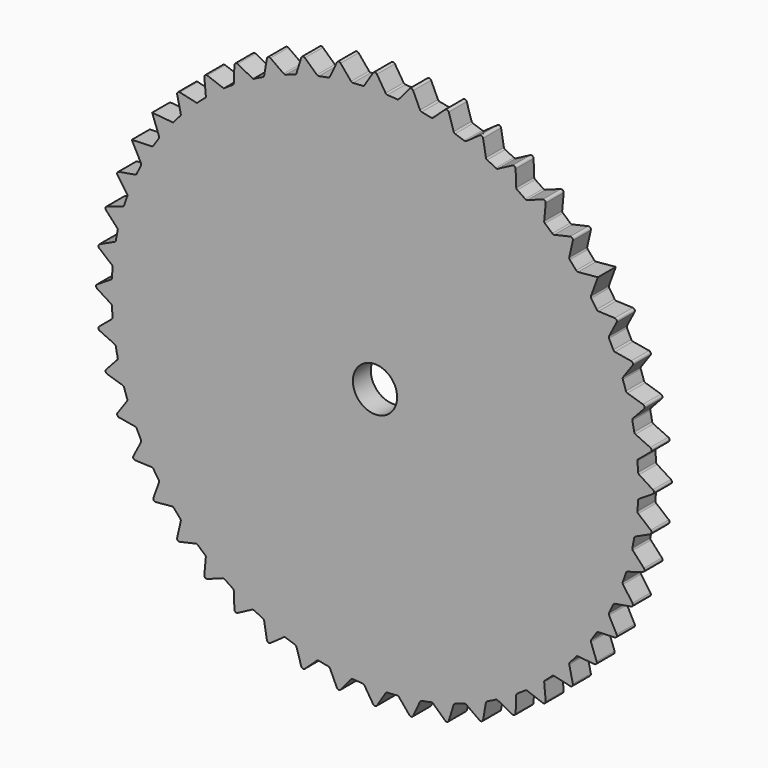
from build123d import *

# Parameters (mm, degrees)
F0_R     = 1.000001
F1_DEPTH = 1.016
F2_R     = 0.1016


with BuildPart() as f1:
    # F0 (on Front) → F1 (new body)
    with BuildSketch(Plane.XZ):
        with BuildLine():
            Line((0, 12.7), (-0.508, 11.895408))
            ThreePointArc((-0.508, 11.895408), (-0.778706, 11.880758), (-1.049008, 11.859948))
            ThreePointArc((-1.049008, 11.859948), (-1.554077, 11.80439), (-2.056316, 11.727334))
            ThreePointArc((-2.056316, 11.727334), (-2.322794, 11.677475), (-2.588068, 11.621562))
            ThreePointArc((-2.588068, 11.621562), (-3.081564, 11.500554), (-3.569448, 11.358601))
            ThreePointArc((-3.569448, 11.358601), (-3.827139, 11.274387), (-4.082845, 11.184327))
            ThreePointArc((-4.082845, 11.184327), (-4.556325, 10.999941), (-5.021506, 10.795521))
            ThreePointArc((-5.021506, 10.795521), (-5.266, 10.678391), (-5.507763, 10.555725))
            ThreePointArc((-5.507763, 10.555725), (-5.953125, 10.311115), (-6.387645, 10.047725))
            ThreePointArc((-6.387645, 10.047725), (-6.614758, 9.899685), (-6.838442, 9.746512))
            ThreePointArc((-6.838442, 9.746512), (-7.248066, 9.445863), (-7.644489, 9.128011))
            ThreePointArc((-7.644489, 9.128011), (-7.850336, 8.951593), (-8.052113, 8.770534))
            ThreePointArc((-8.052113, 8.770534), (-8.41899, 8.41899), (-8.770534, 8.052113))
            ThreePointArc((-8.770534, 8.052113), (-8.951593, 7.850336), (-9.128011, 7.644489))
            ThreePointArc((-9.128011, 7.644489), (-9.445863, 7.248066), (-9.746512, 6.838442))
            ThreePointArc((-9.746512, 6.838442), (-9.899685, 6.614758), (-10.047725, 6.387645))
            ThreePointArc((-10.047725, 6.387645), (-10.311115, 5.953125), (-10.555725, 5.507763))
            ThreePointArc((-10.555725, 5.507763), (-10.678391, 5.266), (-10.795521, 5.021506))
            ThreePointArc((-10.795521, 5.021506), (-10.999941, 4.556325), (-11.184327, 4.082845))
            ThreePointArc((-11.184327, 4.082845), (-11.274387, 3.827139), (-11.358601, 3.569448))
            ThreePointArc((-11.358601, 3.569448), (-11.500554, 3.081564), (-11.621562, 2.588068))
            ThreePointArc((-11.621562, 2.588068), (-11.677475, 2.322794), (-11.727334, 2.056316))
            ThreePointArc((-11.727334, 2.056316), (-11.80439, 1.554077), (-11.859948, 1.049008))
            ThreePointArc((-11.859948, 1.049008), (-11.880758, 0.778706), (-11.895408, 0.508))
            ThreePointArc((-11.895408, 0.508), (-11.90625, 0), (-11.895408, -0.508))
            ThreePointArc((-11.895408, -0.508), (-11.880758, -0.778706), (-11.859948, -1.049008))
            ThreePointArc((-11.859948, -1.049008), (-11.80439, -1.554077), (-11.727334, -2.056316))
            ThreePointArc((-11.727334, -2.056316), (-11.677475, -2.322794), (-11.621562, -2.588068))
            ThreePointArc((-11.621562, -2.588068), (-11.500554, -3.081564), (-11.358601, -3.569448))
            ThreePointArc((-11.358601, -3.569448), (-11.274387, -3.827139), (-11.184327, -4.082845))
            ThreePointArc((-11.184327, -4.082845), (-10.999941, -4.556325), (-10.795521, -5.021506))
            ThreePointArc((-10.795521, -5.021506), (-10.678391, -5.266), (-10.555725, -5.507763))
            ThreePointArc((-10.555725, -5.507763), (-10.311115, -5.953125), (-10.047725, -6.387645))
            ThreePointArc((-10.047725, -6.387645), (-9.899685, -6.614758), (-9.746512, -6.838442))
            ThreePointArc((-9.746512, -6.838442), (-9.445863, -7.248066), (-9.128011, -7.644489))
            ThreePointArc((-9.128011, -7.644489), (-8.951593, -7.850336), (-8.770534, -8.052113))
            ThreePointArc((-8.770534, -8.052113), (-8.41899, -8.41899), (-8.052113, -8.770534))
            ThreePointArc((-8.052113, -8.770534), (-7.850336, -8.951593), (-7.644489, -9.128011))
            ThreePointArc((-7.644489, -9.128011), (-7.248066, -9.445863), (-6.838442, -9.746512))
            ThreePointArc((-6.838442, -9.746512), (-6.614758, -9.899685), (-6.387645, -10.047725))
            ThreePointArc((-6.387645, -10.047725), (-5.953125, -10.311115), (-5.507763, -10.555725))
            ThreePointArc((-5.507763, -10.555725), (-5.266, -10.678391), (-5.021506, -10.795521))
            ThreePointArc((-5.021506, -10.795521), (-4.556325, -10.999941), (-4.082845, -11.184327))
            ThreePointArc((-4.082845, -11.184327), (-3.827139, -11.274387), (-3.569448, -11.358601))
            ThreePointArc((-3.569448, -11.358601), (-3.081564, -11.500554), (-2.588068, -11.621562))
            ThreePointArc((-2.588068, -11.621562), (-2.322794, -11.677475), (-2.056316, -11.727334))
            ThreePointArc((-2.056316, -11.727334), (-1.554077, -11.80439), (-1.049008, -11.859948))
            ThreePointArc((-1.049008, -11.859948), (-0.778706, -11.880758), (-0.508, -11.895408))
            ThreePointArc((-0.508, -11.895408), (0, -11.90625), (0.508, -11.895408))
            ThreePointArc((0.508, -11.895408), (0.778706, -11.880758), (1.049008, -11.859948))
            ThreePointArc((1.049008, -11.859948), (1.554077, -11.80439), (2.056316, -11.727334))
            ThreePointArc((2.056316, -11.727334), (2.322794, -11.677475), (2.588068, -11.621562))
            ThreePointArc((2.588068, -11.621562), (3.081564, -11.500554), (3.569448, -11.358601))
            ThreePointArc((3.569448, -11.358601), (3.827139, -11.274387), (4.082845, -11.184327))
            ThreePointArc((4.082845, -11.184327), (4.556325, -10.999941), (5.021506, -10.795521))
            ThreePointArc((5.021506, -10.795521), (5.266, -10.678391), (5.507763, -10.555725))
            ThreePointArc((5.507763, -10.555725), (5.953125, -10.311115), (6.387645, -10.047725))
            ThreePointArc((6.387645, -10.047725), (6.614758, -9.899685), (6.838442, -9.746512))
            ThreePointArc((6.838442, -9.746512), (7.248066, -9.445863), (7.644489, -9.128011))
            ThreePointArc((7.644489, -9.128011), (7.850336, -8.951593), (8.052113, -8.770534))
            ThreePointArc((8.052113, -8.770534), (8.41899, -8.41899), (8.770534, -8.052113))
            ThreePointArc((8.770534, -8.052113), (8.951593, -7.850336), (9.128011, -7.644489))
            ThreePointArc((9.128011, -7.644489), (9.445863, -7.248066), (9.746512, -6.838442))
            ThreePointArc((9.746512, -6.838442), (9.899685, -6.614758), (10.047725, -6.387645))
            ThreePointArc((10.047725, -6.387645), (10.311115, -5.953125), (10.555725, -5.507763))
            ThreePointArc((10.555725, -5.507763), (10.678391, -5.266), (10.795521, -5.021506))
            ThreePointArc((10.795521, -5.021506), (10.999941, -4.556325), (11.184327, -4.082845))
            ThreePointArc((11.184327, -4.082845), (11.274387, -3.827139), (11.358601, -3.569448))
            ThreePointArc((11.358601, -3.569448), (11.500554, -3.081564), (11.621562, -2.588068))
            ThreePointArc((11.621562, -2.588068), (11.677475, -2.322794), (11.727334, -2.056316))
            ThreePointArc((11.727334, -2.056316), (11.80439, -1.554077), (11.859948, -1.049008))
            ThreePointArc((11.859948, -1.049008), (11.880758, -0.778706), (11.895408, -0.508))
            ThreePointArc((11.895408, -0.508), (11.90625, 0), (11.895408, 0.508))
            ThreePointArc((11.895408, 0.508), (11.880758, 0.778706), (11.859948, 1.049008))
            ThreePointArc((11.859948, 1.049008), (11.80439, 1.554077), (11.727334, 2.056316))
            ThreePointArc((11.727334, 2.056316), (11.677475, 2.322794), (11.621562, 2.588068))
            ThreePointArc((11.621562, 2.588068), (11.500554, 3.081564), (11.358601, 3.569448))
            ThreePointArc((11.358601, 3.569448), (11.274387, 3.827139), (11.184327, 4.082845))
            ThreePointArc((11.184327, 4.082845), (10.999941, 4.556325), (10.795521, 5.021506))
            ThreePointArc((10.795521, 5.021506), (10.678391, 5.266), (10.555725, 5.507763))
            ThreePointArc((10.555725, 5.507763), (10.311115, 5.953125), (10.047725, 6.387645))
            ThreePointArc((10.047725, 6.387645), (9.899685, 6.614758), (9.746512, 6.838442))
            ThreePointArc((9.746512, 6.838442), (9.445863, 7.248066), (9.128011, 7.644489))
            ThreePointArc((9.128011, 7.644489), (8.951593, 7.850336), (8.770534, 8.052113))
            ThreePointArc((8.770534, 8.052113), (8.41899, 8.41899), (8.052113, 8.770534))
            ThreePointArc((8.052113, 8.770534), (7.850336, 8.951593), (7.644489, 9.128011))
            ThreePointArc((7.644489, 9.128011), (7.248066, 9.445863), (6.838442, 9.746512))
            ThreePointArc((6.838442, 9.746512), (6.614758, 9.899685), (6.387645, 10.047725))
            ThreePointArc((6.387645, 10.047725), (5.953125, 10.311115), (5.507763, 10.555725))
            ThreePointArc((5.507763, 10.555725), (5.266, 10.678391), (5.021506, 10.795521))
            ThreePointArc((5.021506, 10.795521), (4.556325, 10.999941), (4.082845, 11.184327))
            ThreePointArc((4.082845, 11.184327), (3.827139, 11.274387), (3.569448, 11.358601))
            ThreePointArc((3.569448, 11.358601), (3.081564, 11.500554), (2.588068, 11.621562))
            ThreePointArc((2.588068, 11.621562), (2.322794, 11.677475), (2.056316, 11.727334))
            ThreePointArc((2.056316, 11.727334), (1.554077, 11.80439), (1.049008, 11.859948))
            ThreePointArc((1.049008, 11.859948), (0.778706, 11.880758), (0.508, 11.895408))
            Line((0.508, 11.895408), (0, 12.7))
        make_face()
        Circle(F0_R, mode=Mode.SUBTRACT)
        with BuildLine():
            ThreePointArc((-2.056316, 11.727334), (-1.554077, 11.80439), (-1.049008, 11.859948))
            Line((-1.049008, 11.859948), (-1.657683, 12.59135))
            Line((-1.657683, 12.59135), (-2.056316, 11.727334))
        make_face()
        with BuildLine():
            ThreePointArc((-3.569448, 11.358601), (-3.081564, 11.500554), (-2.588068, 11.621562))
            Line((-2.588068, 11.621562), (-3.287002, 12.267258))
            Line((-3.287002, 12.267258), (-3.569448, 11.358601))
        make_face()
        with BuildLine():
            ThreePointArc((-5.021506, 10.795521), (-4.556325, 10.999941), (-4.082845, 11.184327))
            Line((-4.082845, 11.184327), (-4.86008, 11.73327))
            Line((-4.86008, 11.73327), (-5.021506, 10.795521))
        make_face()
        with BuildLine():
            ThreePointArc((-6.387645, 10.047725), (-5.953125, 10.311115), (-5.507763, 10.555725))
            Line((-5.507763, 10.555725), (-6.35, 10.998523))
            Line((-6.35, 10.998523), (-6.387645, 10.047725))
        make_face()
        with BuildLine():
            ThreePointArc((-7.644489, 9.128011), (-7.248066, 9.445863), (-6.838442, 9.746512))
            Line((-6.838442, 9.746512), (-7.73127, 10.075587))
            Line((-7.73127, 10.075587), (-7.644489, 9.128011))
        make_face()
        with BuildLine():
            ThreePointArc((-8.770534, 8.052113), (-8.41899, 8.41899), (-8.052113, 8.770534))
            Line((-8.052113, 8.770534), (-8.980256, 8.980256))
            Line((-8.980256, 8.980256), (-8.770534, 8.052113))
        make_face()
        with BuildLine():
            ThreePointArc((-10.555725, 5.507763), (-10.311115, 5.953125), (-10.047725, 6.387645))
            Line((-10.047725, 6.387645), (-10.998523, 6.35))
            Line((-10.998523, 6.35), (-10.555725, 5.507763))
        make_face()
        with BuildLine():
            ThreePointArc((-11.184327, 4.082845), (-10.999941, 4.556325), (-10.795521, 5.021506))
            Line((-10.795521, 5.021506), (-11.73327, 4.86008))
            Line((-11.73327, 4.86008), (-11.184327, 4.082845))
        make_face()
        with BuildLine():
            ThreePointArc((-11.621562, 2.588068), (-11.500554, 3.081564), (-11.358601, 3.569448))
            Line((-11.358601, 3.569448), (-12.267258, 3.287002))
            Line((-12.267258, 3.287002), (-11.621562, 2.588068))
        make_face()
        with BuildLine():
            ThreePointArc((-11.859948, 1.049008), (-11.80439, 1.554077), (-11.727334, 2.056316))
            Line((-11.727334, 2.056316), (-12.59135, 1.657683))
            Line((-12.59135, 1.657683), (-11.859948, 1.049008))
        make_face()
        with BuildLine():
            ThreePointArc((-11.895408, -0.508), (-11.90625, 0), (-11.895408, 0.508))
            Line((-11.895408, 0.508), (-12.7, 0))
            Line((-12.7, 0), (-11.895408, -0.508))
        make_face()
        with BuildLine():
            ThreePointArc((-11.727334, -2.056316), (-11.80439, -1.554077), (-11.859948, -1.049008))
            Line((-11.859948, -1.049008), (-12.59135, -1.657683))
            Line((-12.59135, -1.657683), (-11.727334, -2.056316))
        make_face()
        with BuildLine():
            ThreePointArc((-9.746512, 6.838442), (-9.445863, 7.248066), (-9.128011, 7.644489))
            Line((-9.128011, 7.644489), (-10.075587, 7.73127))
            Line((-10.075587, 7.73127), (-9.746512, 6.838442))
        make_face()
        with BuildLine():
            ThreePointArc((-11.358601, -3.569448), (-11.500554, -3.081564), (-11.621562, -2.588068))
            Line((-11.621562, -2.588068), (-12.267258, -3.287002))
            Line((-12.267258, -3.287002), (-11.358601, -3.569448))
        make_face()
        with BuildLine():
            ThreePointArc((-10.795521, -5.021506), (-10.999941, -4.556325), (-11.184327, -4.082845))
            Line((-11.184327, -4.082845), (-11.73327, -4.86008))
            Line((-11.73327, -4.86008), (-10.795521, -5.021506))
        make_face()
        with BuildLine():
            ThreePointArc((-10.047725, -6.387645), (-10.311115, -5.953125), (-10.555725, -5.507763))
            Line((-10.555725, -5.507763), (-10.998523, -6.35))
            Line((-10.998523, -6.35), (-10.047725, -6.387645))
        make_face()
        with BuildLine():
            Line((1.657683, 12.59135), (1.049008, 11.859948))
            ThreePointArc((1.049008, 11.859948), (1.554077, 11.80439), (2.056316, 11.727334))
            Line((2.056316, 11.727334), (1.657683, 12.59135))
        make_face()
        with BuildLine():
            Line((3.287002, 12.267258), (2.588068, 11.621562))
            ThreePointArc((2.588068, 11.621562), (3.081564, 11.500554), (3.569448, 11.358601))
            Line((3.569448, 11.358601), (3.287002, 12.267258))
        make_face()
        with BuildLine():
            Line((4.86008, 11.73327), (4.082845, 11.184327))
            ThreePointArc((4.082845, 11.184327), (4.556325, 10.999941), (5.021506, 10.795521))
            Line((5.021506, 10.795521), (4.86008, 11.73327))
        make_face()
        with BuildLine():
            Line((6.35, 10.998523), (5.507763, 10.555725))
            ThreePointArc((5.507763, 10.555725), (5.953125, 10.311115), (6.387645, 10.047725))
            Line((6.387645, 10.047725), (6.35, 10.998523))
        make_face()
        with BuildLine():
            Line((7.73127, 10.075587), (6.838442, 9.746512))
            ThreePointArc((6.838442, 9.746512), (7.248066, 9.445863), (7.644489, 9.128011))
            Line((7.644489, 9.128011), (7.73127, 10.075587))
        make_face()
        with BuildLine():
            Line((8.980256, 8.980256), (8.052113, 8.770534))
            ThreePointArc((8.052113, 8.770534), (8.41899, 8.41899), (8.770534, 8.052113))
            Line((8.770534, 8.052113), (8.980256, 8.980256))
        make_face()
        with BuildLine():
            Line((10.075587, 7.73127), (9.128011, 7.644489))
            ThreePointArc((9.128011, 7.644489), (9.445863, 7.248066), (9.746512, 6.838442))
            Line((9.746512, 6.838442), (10.075587, 7.73127))
        make_face()
        with BuildLine():
            Line((10.998523, 6.35), (10.047725, 6.387645))
            ThreePointArc((10.047725, 6.387645), (10.311115, 5.953125), (10.555725, 5.507763))
            Line((10.555725, 5.507763), (10.998523, 6.35))
        make_face()
        with BuildLine():
            Line((11.73327, 4.86008), (10.795521, 5.021506))
            ThreePointArc((10.795521, 5.021506), (10.999941, 4.556325), (11.184327, 4.082845))
            Line((11.184327, 4.082845), (11.73327, 4.86008))
        make_face()
        with BuildLine():
            Line((12.267258, 3.287002), (11.358601, 3.569448))
            ThreePointArc((11.358601, 3.569448), (11.500554, 3.081564), (11.621562, 2.588068))
            Line((11.621562, 2.588068), (12.267258, 3.287002))
        make_face()
        with BuildLine():
            Line((12.59135, 1.657683), (11.727334, 2.056316))
            ThreePointArc((11.727334, 2.056316), (11.80439, 1.554077), (11.859948, 1.049008))
            Line((11.859948, 1.049008), (12.59135, 1.657683))
        make_face()
        with BuildLine():
            Line((12.7, 0), (11.895408, 0.508))
            ThreePointArc((11.895408, 0.508), (11.90625, 0), (11.895408, -0.508))
            Line((11.895408, -0.508), (12.7, 0))
        make_face()
        with BuildLine():
            Line((12.59135, -1.657683), (11.859948, -1.049008))
            ThreePointArc((11.859948, -1.049008), (11.80439, -1.554077), (11.727334, -2.056316))
            Line((11.727334, -2.056316), (12.59135, -1.657683))
        make_face()
        with BuildLine():
            Line((12.267258, -3.287002), (11.621562, -2.588068))
            ThreePointArc((11.621562, -2.588068), (11.500554, -3.081564), (11.358601, -3.569448))
            Line((11.358601, -3.569448), (12.267258, -3.287002))
        make_face()
        with BuildLine():
            Line((11.73327, -4.86008), (11.184327, -4.082845))
            ThreePointArc((11.184327, -4.082845), (10.999941, -4.556325), (10.795521, -5.021506))
            Line((10.795521, -5.021506), (11.73327, -4.86008))
        make_face()
        with BuildLine():
            Line((10.998523, -6.35), (10.555725, -5.507763))
            ThreePointArc((10.555725, -5.507763), (10.311115, -5.953125), (10.047725, -6.387645))
            Line((10.047725, -6.387645), (10.998523, -6.35))
        make_face()
        with BuildLine():
            Line((10.075587, -7.73127), (9.746512, -6.838442))
            ThreePointArc((9.746512, -6.838442), (9.445863, -7.248066), (9.128011, -7.644489))
            Line((9.128011, -7.644489), (10.075587, -7.73127))
        make_face()
        with BuildLine():
            Line((8.980256, -8.980256), (8.770534, -8.052113))
            ThreePointArc((8.770534, -8.052113), (8.41899, -8.41899), (8.052113, -8.770534))
            Line((8.052113, -8.770534), (8.980256, -8.980256))
        make_face()
        with BuildLine():
            Line((7.73127, -10.075587), (7.644489, -9.128011))
            ThreePointArc((7.644489, -9.128011), (7.248066, -9.445863), (6.838442, -9.746512))
            Line((6.838442, -9.746512), (7.73127, -10.075587))
        make_face()
        with BuildLine():
            Line((6.35, -10.998523), (6.387645, -10.047725))
            ThreePointArc((6.387645, -10.047725), (5.953125, -10.311115), (5.507763, -10.555725))
            Line((5.507763, -10.555725), (6.35, -10.998523))
        make_face()
        with BuildLine():
            Line((4.86008, -11.73327), (5.021506, -10.795521))
            ThreePointArc((5.021506, -10.795521), (4.556325, -10.999941), (4.082845, -11.184327))
            Line((4.082845, -11.184327), (4.86008, -11.73327))
        make_face()
        with BuildLine():
            Line((3.287002, -12.267258), (3.569448, -11.358601))
            ThreePointArc((3.569448, -11.358601), (3.081564, -11.500554), (2.588068, -11.621562))
            Line((2.588068, -11.621562), (3.287002, -12.267258))
        make_face()
        with BuildLine():
            Line((1.657683, -12.59135), (2.056316, -11.727334))
            ThreePointArc((2.056316, -11.727334), (1.554077, -11.80439), (1.049008, -11.859948))
            Line((1.049008, -11.859948), (1.657683, -12.59135))
        make_face()
        with BuildLine():
            ThreePointArc((0.508, -11.895408), (0, -11.90625), (-0.508, -11.895408))
            Line((-0.508, -11.895408), (0, -12.7))
            Line((0, -12.7), (0.508, -11.895408))
        make_face()
        with BuildLine():
            ThreePointArc((-1.049008, -11.859948), (-1.554077, -11.80439), (-2.056316, -11.727334))
            Line((-2.056316, -11.727334), (-1.657683, -12.59135))
            Line((-1.657683, -12.59135), (-1.049008, -11.859948))
        make_face()
        with BuildLine():
            ThreePointArc((-2.588068, -11.621562), (-3.081564, -11.500554), (-3.569448, -11.358601))
            Line((-3.569448, -11.358601), (-3.287002, -12.267258))
            Line((-3.287002, -12.267258), (-2.588068, -11.621562))
        make_face()
        with BuildLine():
            ThreePointArc((-4.082845, -11.184327), (-4.556325, -10.999941), (-5.021506, -10.795521))
            Line((-5.021506, -10.795521), (-4.86008, -11.73327))
            Line((-4.86008, -11.73327), (-4.082845, -11.184327))
        make_face()
        with BuildLine():
            ThreePointArc((-5.507763, -10.555725), (-5.953125, -10.311115), (-6.387645, -10.047725))
            Line((-6.387645, -10.047725), (-6.35, -10.998523))
            Line((-6.35, -10.998523), (-5.507763, -10.555725))
        make_face()
        with BuildLine():
            ThreePointArc((-6.838442, -9.746512), (-7.248066, -9.445863), (-7.644489, -9.128011))
            Line((-7.644489, -9.128011), (-7.73127, -10.075587))
            Line((-7.73127, -10.075587), (-6.838442, -9.746512))
        make_face()
        with BuildLine():
            ThreePointArc((-8.052113, -8.770534), (-8.41899, -8.41899), (-8.770534, -8.052113))
            Line((-8.770534, -8.052113), (-8.980256, -8.980256))
            Line((-8.980256, -8.980256), (-8.052113, -8.770534))
        make_face()
        with BuildLine():
            ThreePointArc((-9.128011, -7.644489), (-9.445863, -7.248066), (-9.746512, -6.838442))
            Line((-9.746512, -6.838442), (-10.075587, -7.73127))
            Line((-10.075587, -7.73127), (-9.128011, -7.644489))
        make_face()
    extrude(amount=F1_DEPTH)

    # F2
    f2_edges = [f1.edges().sort_by_distance(p)[0] for p in [
        (-1.657683, -0.508, 12.59135),
        (-1.049008, -0.508, 11.859948),
        (-0.508, -0.508, 11.895408),
        (0, -0.508, 12.7),
        (0.508, -0.508, 11.895408),
        (1.049008, -0.508, 11.859948),
        (1.657683, -0.508, 12.59135),
        (2.056316, -0.508, 11.727334),
        (2.588068, -0.508, 11.621562),
        (3.287002, -0.508, 12.267258),
        (3.569448, -0.508, 11.358601),
        (4.082845, -0.508, 11.184327),
        (4.86008, -0.508, 11.73327),
        (5.021506, -0.508, 10.795521),
        (5.507763, -0.508, 10.555725),
        (6.35, -0.508, 10.998523),
        (6.387645, -0.508, 10.047725),
        (6.838442, -0.508, 9.746512),
        (7.73127, -0.508, 10.075587),
        (7.644489, -0.508, 9.128011),
        (8.052113, -0.508, 8.770534),
        (8.980256, -0.508, 8.980256),
        (8.770534, -0.508, 8.052113),
        (9.128011, -0.508, 7.644489),
        (9.746512, -0.508, 6.838442),
        (10.047725, -0.508, 6.387645),
        (10.998523, -0.508, 6.35),
        (10.555725, -0.508, 5.507763),
        (10.795521, -0.508, 5.021506),
        (11.73327, -0.508, 4.86008),
        (11.184327, -0.508, 4.082845),
        (11.358601, -0.508, 3.569448),
        (12.267258, -0.508, 3.287002),
        (11.621562, -0.508, 2.588068),
        (11.727334, -0.508, 2.056316),
        (12.59135, -0.508, 1.657683),
        (11.859948, -0.508, 1.049008),
        (11.895408, -0.508, 0.508),
        (12.7, -0.508, 0),
        (11.895408, -0.508, -0.508),
        (11.859948, -0.508, -1.049008),
        (12.59135, -0.508, -1.657683),
        (11.727334, -0.508, -2.056316),
        (11.621562, -0.508, -2.588068),
        (12.267258, -0.508, -3.287002),
        (11.358601, -0.508, -3.569448),
        (11.184327, -0.508, -4.082845),
        (11.73327, -0.508, -4.86008),
        (10.555725, -0.508, -5.507763),
        (10.998523, -0.508, -6.35),
        (10.047725, -0.508, -6.387645),
        (9.746512, -0.508, -6.838442),
        (10.075587, -0.508, -7.73127),
        (10.795521, -0.508, -5.021506),
        (9.128011, -0.508, -7.644489),
        (8.770534, -0.508, -8.052113),
        (8.980256, -0.508, -8.980256),
        (8.052113, -0.508, -8.770534),
        (7.644489, -0.508, -9.128011),
        (7.73127, -0.508, -10.075587),
        (6.838442, -0.508, -9.746512),
        (6.387645, -0.508, -10.047725),
        (6.35, -0.508, -10.998523),
        (5.507763, -0.508, -10.555725),
        (5.021506, -0.508, -10.795521),
        (4.86008, -0.508, -11.73327),
        (4.082845, -0.508, -11.184327),
        (3.569448, -0.508, -11.358601),
        (3.287002, -0.508, -12.267258),
        (2.588068, -0.508, -11.621562),
        (2.056316, -0.508, -11.727334),
        (1.657683, -0.508, -12.59135),
        (1.049008, -0.508, -11.859948),
        (0.508, -0.508, -11.895408),
        (0, -0.508, -12.7),
        (-0.508, -0.508, -11.895408),
        (-1.049008, -0.508, -11.859948),
        (-2.056316, -0.508, -11.727334),
        (-2.588068, -0.508, -11.621562),
        (-3.287002, -0.508, -12.267258),
        (-3.569448, -0.508, -11.358601),
        (-4.082845, -0.508, -11.184327),
        (-4.86008, -0.508, -11.73327),
        (-5.021506, -0.508, -10.795521),
        (-1.657683, -0.508, -12.59135),
        (-6.35, -0.508, -10.998523),
        (-6.387645, -0.508, -10.047725),
        (-5.507763, -0.508, -10.555725),
        (-6.838442, -0.508, -9.746512),
        (-7.73127, -0.508, -10.075587),
        (-7.644489, -0.508, -9.128011),
        (-8.052113, -0.508, -8.770534),
        (-8.980256, -0.508, -8.980256),
        (-8.770534, -0.508, -8.052113),
        (-9.128011, -0.508, -7.644489),
        (-10.075587, -0.508, -7.73127),
        (-9.746512, -0.508, -6.838442),
        (-10.047725, -0.508, -6.387645),
        (-10.998523, -0.508, -6.35),
        (-10.555725, -0.508, -5.507763),
        (-10.795521, -0.508, -5.021506),
        (-11.73327, -0.508, -4.86008),
        (-11.184327, -0.508, -4.082845),
        (-11.358601, -0.508, -3.569448),
        (-12.267258, -0.508, -3.287002),
        (-11.621562, -0.508, -2.588068),
        (-11.727334, -0.508, -2.056316),
        (-12.59135, -0.508, -1.657683),
        (-12.7, -0.508, 0),
        (-11.895408, -0.508, 0.508),
        (-11.859948, -0.508, -1.049008),
        (-11.895408, -0.508, -0.508),
        (-12.59135, -0.508, 1.657683),
        (-11.727334, -0.508, 2.056316),
        (-11.621562, -0.508, 2.588068),
        (-12.267258, -0.508, 3.287002),
        (-11.358601, -0.508, 3.569448),
        (-11.184327, -0.508, 4.082845),
        (-11.859948, -0.508, 1.049008),
        (-11.73327, -0.508, 4.86008),
        (-10.795521, -0.508, 5.021506),
        (-10.555725, -0.508, 5.507763),
        (-10.047725, -0.508, 6.387645),
        (-9.746512, -0.508, 6.838442),
        (-8.770534, -0.508, 8.052113),
        (-8.980256, -0.508, 8.980256),
        (-7.644489, -0.508, 9.128011),
        (-7.73127, -0.508, 10.075587),
        (-6.387645, -0.508, 10.047725),
        (-6.35, -0.508, 10.998523),
        (-5.021506, -0.508, 10.795521),
        (-4.86008, -0.508, 11.73327),
        (-3.569448, -0.508, 11.358601),
        (-3.287002, -0.508, 12.267258),
        (-2.588068, -0.508, 11.621562),
        (-2.056316, -0.508, 11.727334),
        (-4.082845, -0.508, 11.184327),
    ]]
    fillet(f2_edges, radius=F2_R)


solid = f1.part
